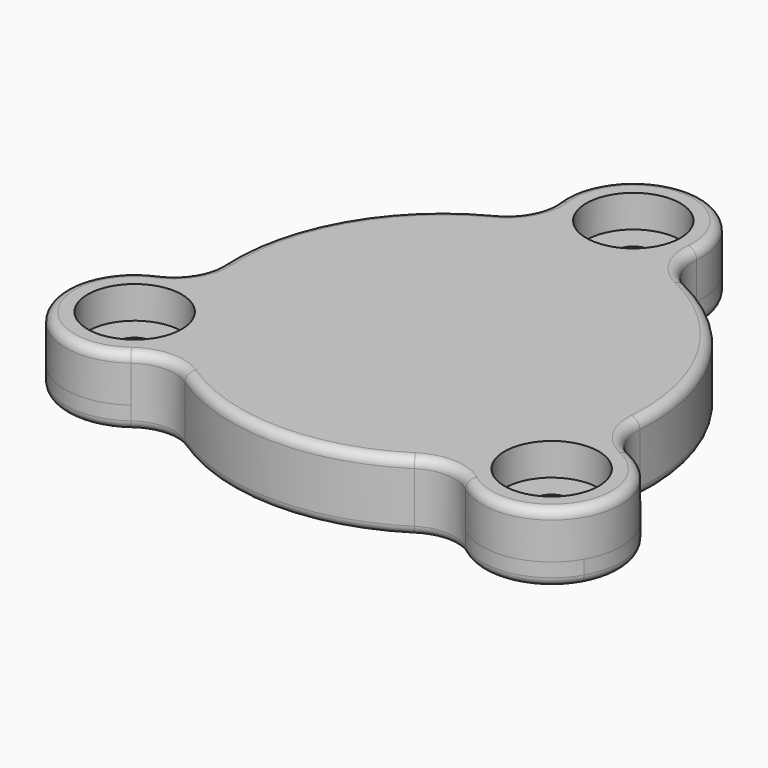
from build123d import *

# Parameters (mm, degrees)
F0_R     = 4.953
F0_R_2   = 25.8445
F1_DEPTH = 3.175
F0_R_3   = 23.368
F2_R     = 6.477
F2_R_2   = 25.8445
F2_R_3   = 23.368
F3_DEPTH = 6.35
F4_R     = 1.27
F5_R     = 6.477
F5_R_2   = 2.54
F5_R_3   = 4.953
F6_DEPTH = 1.905


with BuildPart() as f1:
    # F0 (on Top) → F1 (new body)
    with BuildSketch(Plane.XY):
        with BuildLine():
            ThreePointArc((9.0086336869, 32.5101644312), (6.6925232298, 39.7414671346), (-0.1745849704, 42.9816725916))
            ThreePointArc((-0.1745849704, 42.9816725916), (-7.5230198534, 39.8614621147), (-9.915806602, 32.2450469325))
            ThreePointArc((-9.915806602, 32.2450469325), (-10.5910581964, 28.4835208203), (-13.3029114312, 25.7907721424))
            ThreePointArc((-13.3029114312, 25.7907721424), (-25.1987671044, 14.3928286542), (-28.9728939466, -1.6440184341))
            ThreePointArc((-28.9728939466, -1.6440184341), (-29.9145802905, -5.3478367664), (-32.8114953448, -7.8404110537))
            ThreePointArc((-32.8114953448, -7.8404110537), (-38.0501370204, -13.4493467555), (-37.4517426006, -21.1008466367))
            ThreePointArc((-37.4517426006, -21.1008466367), (-31.1624094368, -25.8853940649), (-23.425750972, -24.2755116042))
            ThreePointArc((-23.425750972, -24.2755116042), (-19.8069132279, -23.0470748777), (-16.1384080748, -24.1181086543))
            ThreePointArc((-16.1384080748, -24.1181086543), (-0.2635040397, -29.0183036353), (15.6977684287, -24.4072007123))
            ThreePointArc((15.6977684287, -24.4072007123), (19.3851183264, -23.4029626225), (22.9810512364, -24.6969139027))
            ThreePointArc((22.9810512364, -24.6969139027), (30.6277985436, -26.4591447743), (37.0024270158, -21.8828674809))
            ThreePointArc((37.0024270158, -21.8828674809), (37.8184238404, -14.1957450912), (32.6637049126, -8.4349661312))
            ThreePointArc((32.6637049126, -8.4349661312), (29.812532046, -5.8901956712), (28.9382613371, -2.1698873323))
            ThreePointArc((28.9382613371, -2.1698873323), (25.1275337964, 14.5168324906), (12.5752130811, 26.153305646))
            ThreePointArc((12.5752130811, 26.153305646), (9.7889920361, 28.7690303444), (9.0086336869, 32.5101644312))
        make_face()
        with Locations((-29.0596948338, -16.5953878056)):
            Circle(F0_R, mode=Mode.SUBTRACT)
        with Locations((28.7535350448, -17.1203674809)):
            Circle(F0_R, mode=Mode.SUBTRACT)
        Circle(F0_R_2, mode=Mode.SUBTRACT)
        with BuildLine():
            ThreePointArc((4.4842329497, 33.4612166202), (-4.0247403768, 30.0134256316), (-0.3157923687, 38.4118537253))
            ThreePointArc((-0.3157923687, 38.4118537253), (3.0872062762, 36.9090076088), (4.4842329497, 33.4612166202))
        make_face(mode=Mode.SUBTRACT)
    extrude(amount=F1_DEPTH)



with BuildPart() as f1b:
    # F0 (on Top) → F1, piece 2 (new body)
    with BuildSketch(Plane.XY):
        Circle(F0_R_3)
    extrude(amount=F1_DEPTH)


with BuildPart() as f1_1:
    add(f1.part)

    add(f1b.part)  # F3 merges F1b
    # F2 (on face) → F3 (join)
    with BuildSketch(Plane.XY.offset(3.175)):
        with BuildLine():
            ThreePointArc((15.6977684287, -24.4072007123), (19.3851183264, -23.4029626225), (22.9810512364, -24.6969139027))
            ThreePointArc((22.9810512364, -24.6969139027), (36.9376531789, -21.9933373521), (32.6637049126, -8.4349661312))
            ThreePointArc((32.6637049126, -8.4349661312), (29.812532046, -5.8901956712), (28.9382613371, -2.1698873323))
            ThreePointArc((28.9382613371, -2.1698873323), (25.1275337964, 14.5168324906), (12.5752130811, 26.153305646))
            ThreePointArc((12.5752130811, 26.153305646), (9.7889920361, 28.7690303444), (9.0086336869, 32.5101644312))
            ThreePointArc((9.0086336869, 32.5101644312), (-0.6021922069, 42.9852820718), (-9.915806602, 32.2450469325))
            ThreePointArc((-9.915806602, 32.2450469325), (-10.5910581964, 28.4835208203), (-13.3029114312, 25.7907721424))
            ThreePointArc((-13.3029114312, 25.7907721424), (-25.1987671044, 14.3928286542), (-28.9728939466, -1.6440184341))
            ThreePointArc((-28.9728939466, -1.6440184341), (-29.9145802905, -5.3478367664), (-32.8114953448, -7.8404110537))
            ThreePointArc((-32.8114953448, -7.8404110537), (-37.3309552229, -21.3189327218), (-23.425750972, -24.2755116042))
            ThreePointArc((-23.425750972, -24.2755116042), (-19.8069132279, -23.0470748777), (-16.1384080748, -24.1181086543))
            ThreePointArc((-16.1384080748, -24.1181086543), (-0.2635040397, -29.0183036353), (15.6977684287, -24.4072007123))
        make_face()
        with Locations((-29.0596948338, -16.5953878056)):
            Circle(F2_R, mode=Mode.SUBTRACT)
        with Locations((28.7535350448, -17.1203674809)):
            Circle(F2_R, mode=Mode.SUBTRACT)
        Circle(F2_R_2, mode=Mode.SUBTRACT)
        with Locations((-0.4687670503, 33.4612166202)):
            Circle(F2_R, mode=Mode.SUBTRACT)
        Circle(F2_R_2)
        Circle(F2_R_3, mode=Mode.SUBTRACT)
        Circle(F2_R_3)
    extrude(amount=F3_DEPTH)

    # F4
    f4_edges = [f1_1.edges().sort_by_distance(p)[0] for p in [
        (-0.602192, 42.985282, 0),
        (-19.806913, -23.047075, 9.525),
    ]]
    fillet(f4_edges, radius=F4_R)

    # F5 (on face) → F6 (join)
    with BuildSketch(Plane.XY.offset(3.175)):
        with Locations((-0.4687670503, 33.4612166202)):
            Circle(F5_R)
        with Locations((-0.4687670503, 33.4612166202)):
            Circle(F5_R_2, mode=Mode.SUBTRACT)
        with Locations((-29.0596948338, -16.5953878056)):
            Circle(F5_R)
        with Locations((-29.0596948338, -16.5953878056)):
            Circle(F5_R_3, mode=Mode.SUBTRACT)
        with Locations((-29.0596948338, -16.5953878056)):
            Circle(F5_R_3)
        with Locations((-29.0596948338, -16.5953878056)):
            Circle(F5_R_2, mode=Mode.SUBTRACT)
        with Locations((28.7535350448, -17.1203674809)):
            Circle(F5_R)
        with Locations((28.7535350448, -17.1203674809)):
            Circle(F5_R_2, mode=Mode.SUBTRACT)
    extrude(amount=F6_DEPTH)


solid = f1_1.part
